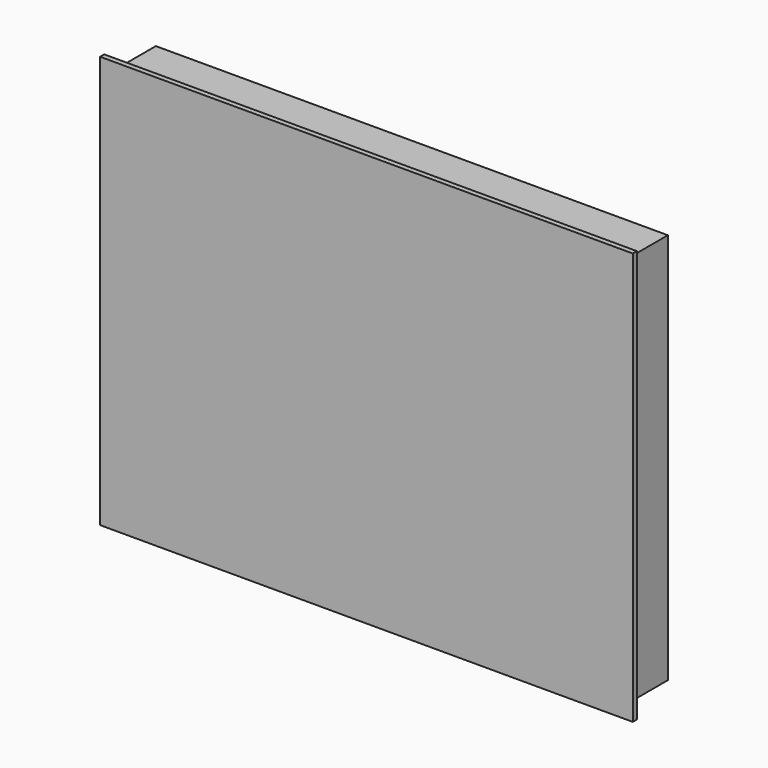
from build123d import *

# Parameters (mm, degrees)
F1_W     = 298
F1_H     = 228
F2_DEPTH = 30
F0_W     = 310
F0_H     = 240
F3_DEPTH = 3


with BuildPart() as f2:
    # F1 (on face) → F2 (new body)
    with BuildSketch(Plane.XZ):
        Rectangle(F1_W, F1_H)
    extrude(amount=-F2_DEPTH)

    # F0 (on Front) → F3 (join)
    with BuildSketch(Plane.XZ):
        Rectangle(F0_W, F0_H)
    extrude(amount=F3_DEPTH)


solid = f2.part
